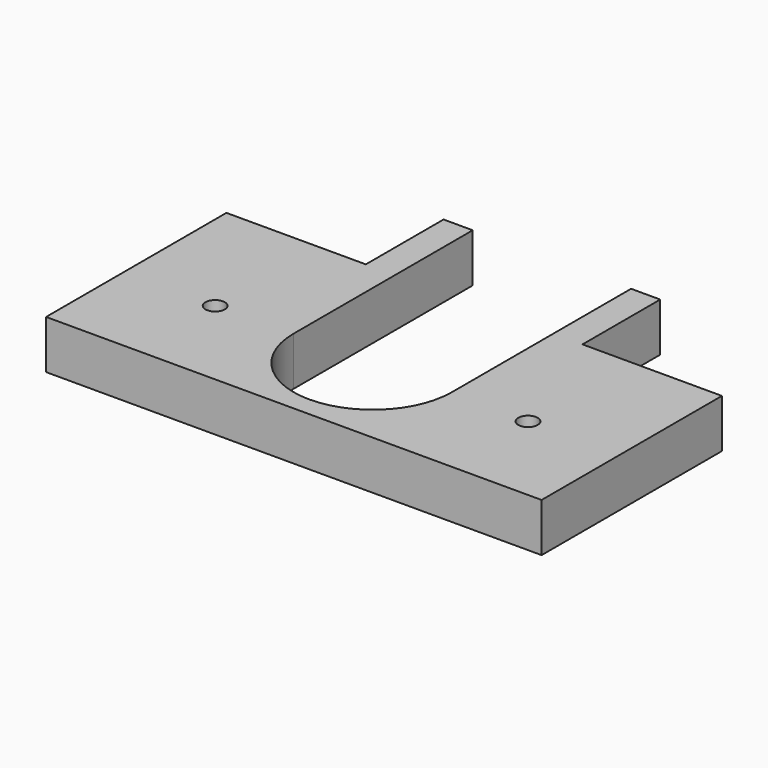
from build123d import *

# Parameters (mm, degrees)
F0_R     = 1
F1_DEPTH = 5


with BuildPart() as f1:
    # F0 (on Top) → F1 (new body)
    with BuildSketch(Plane.XY):
        with BuildLine():
            Line((-11.15, 13.05), (-25.5, 13.05))
            Line((-25.5, 13.05), (-25.5, -10.15))
            Line((-25.5, -10.15), (25.5, -10.15))
            Line((25.5, -10.15), (25.5, 13.05))
            Line((25.5, 13.05), (11.15, 13.05))
            Line((11.15, 13.05), (11.15, 23.05))
            Line((11.15, 23.05), (8.15, 23.05))
            Line((8.15, 23.05), (8.15, 0))
            ThreePointArc((8.15, 0), (0, -8.15), (-8.15, 0))
            Line((-8.15, 0), (-8.15, 23.05))
            Line((-8.15, 23.05), (-11.15, 23.05))
            Line((-11.15, 23.05), (-11.15, 13.05))
        make_face()
        with Locations((-16.1, -0.15)):
            Circle(F0_R, mode=Mode.SUBTRACT)
        with Locations((16.1, -0.15)):
            Circle(F0_R, mode=Mode.SUBTRACT)
    extrude(amount=F1_DEPTH)


solid = f1.part
